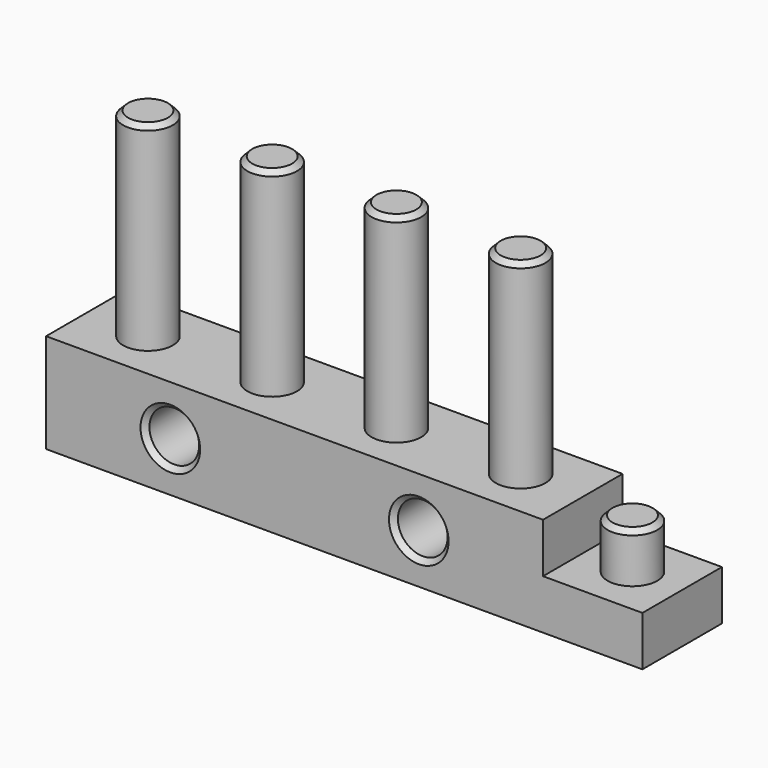
from build123d import *

# Parameters (mm, degrees)
F0_W      = 127
F0_H      = 25.4
F0_R      = 6.35
F1_DEPTH  = 12.7
F2_SIZE   = 1.27
F3_W      = 25.4
F3_H      = 6.35
F4_DEPTH  = 25.4
F5_R      = 6.35
F6_DEPTH  = 19.05
F7_DEPTH  = 6.35
F8_SIZE   = 1.27
F9_R      = 6.35
F10_DEPTH = 50.8
F11_SIZE  = 1.27


with BuildPart() as f1:
    # F0 (on Front) → F1 (new body, symmetric)
    with BuildSketch(Plane.XZ):
        with Locations((-63.5, -12.7)):
            Rectangle(F0_W, F0_H)
        with Locations((-95.25, -12.7)):
            Circle(F0_R, mode=Mode.SUBTRACT)
        with Locations((-31.75, -12.7)):
            Circle(F0_R, mode=Mode.SUBTRACT)
    extrude(amount=F1_DEPTH, both=True)

    # F2
    f2_edges = [f1.edges().sort_by_distance(p)[0] for p in [
        (-101.6, -12.7, -12.7),
        (-38.1, -12.7, -12.7),
        (-101.6, 12.7, -12.7),
        (-38.1, 12.7, -12.7),
    ]]
    chamfer(f2_edges, length=F2_SIZE)

    # F3 (on face) → F4 (join)
    with BuildSketch(Plane.YZ):
        with Locations((0, -22.225)):
            Rectangle(F3_W, F3_H)
    extrude(amount=F4_DEPTH)

    # F5 (on face) → F6 (join)
    with BuildSketch(Plane.XY.offset(-19.05)):
        with Locations((12.7, 0)):
            Circle(F5_R)
    extrude(amount=F6_DEPTH)

    # F7 (add): a face of the model
    f7_faces = [f1.faces().sort_by_distance(p)[0] for p in [
        (12.7, 12.3407897552, -19.05),
    ]]
    extrude(f7_faces, amount=F7_DEPTH)

    # F8
    f8_edges = [f1.edges().sort_by_distance(p)[0] for p in [
        (6.35, 0, 0),
    ]]
    chamfer(f8_edges, length=F8_SIZE)

    # F9 (on face) → F10 (join)
    with BuildSketch(Plane.XY):
        with Locations((-15.875, 0)):
            Circle(F9_R)
        with Locations((-47.625, 0)):
            Circle(F9_R)
        with Locations((-79.375, 0)):
            Circle(F9_R)
        with Locations((-111.125, 0)):
            Circle(F9_R)
    extrude(amount=F10_DEPTH)

    # F11
    f11_edges = [f1.edges().sort_by_distance(p)[0] for p in [
        (-22.225, 0, 50.8),
        (-53.975, 0, 50.8),
        (-85.725, 0, 50.8),
        (-117.475, 0, 50.8),
    ]]
    chamfer(f11_edges, length=F11_SIZE)


solid = f1.part
